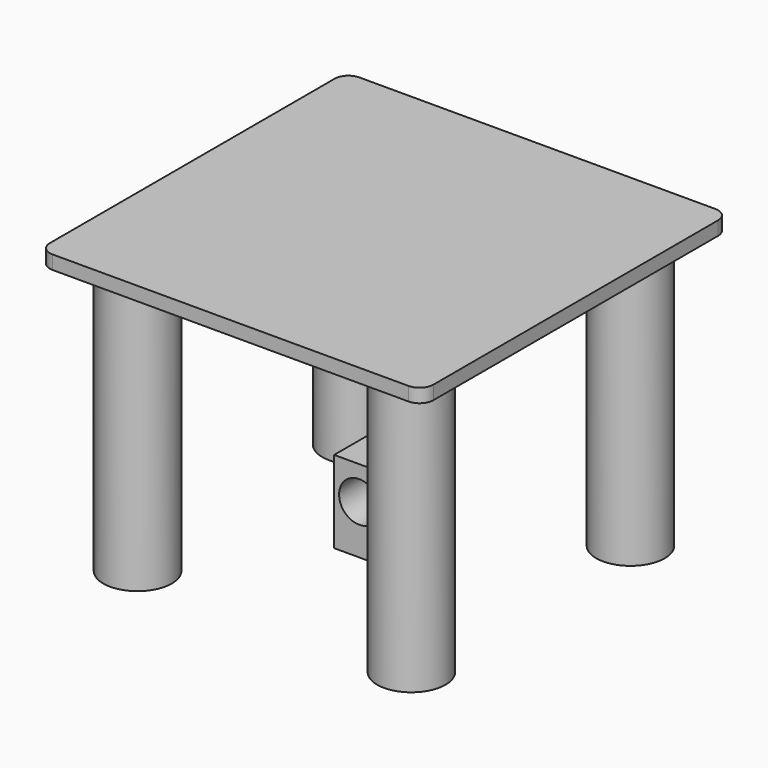
from build123d import *

# Parameters (mm, degrees)
F0_W     = 25
F0_H     = 20
F1_DEPTH = 30
F2_R     = 7.344135
F3_DEPTH = 20
F4_R     = 12.5
F5_DEPTH = 100
F6_W     = 140
F6_H     = 140
F7_DEPTH = 5
F8_R     = 5


with BuildPart() as f1:
    # F0 (on Top) → F1 (new body)
    with BuildSketch(Plane.XY):
        with Locations((-2.5, 6)):
            Rectangle(F0_W, F0_H)
    extrude(amount=F1_DEPTH)

    # F2 (on face) → F3 (cut, through all)
    with BuildSketch(Plane.XZ.offset(4)):
        with Locations((-5.862038, 17.850745)):
            Circle(F2_R)
    extrude(amount=-F3_DEPTH, mode=Mode.SUBTRACT)


with BuildPart() as f5:
    # F4 (on Top) → F5 (new body)
    with BuildSketch(Plane.XY):
        with Locations((-50, -50)):
            Circle(F4_R)
        with Locations((-50, 50)):
            Circle(F4_R)
        with Locations((50, 50)):
            Circle(F4_R)
        with Locations((50, -50)):
            Circle(F4_R)
    extrude(amount=F5_DEPTH)


with BuildPart() as f7:
    # F6 (on face) → F7 (new body)
    with BuildSketch(Plane.XY.offset(100)):
        Rectangle(F6_W, F6_H)
    extrude(amount=F7_DEPTH)

    # F8
    f8_edges = [f7.edges().sort_by_distance(p)[0] for p in [
        (-70, -70, 102.5),
        (70, -70, 102.5),
        (70, 70, 102.5),
        (-70, 70, 102.5),
    ]]
    fillet(f8_edges, radius=F8_R)


solid = Compound([f1.part, f5.part, f7.part])
